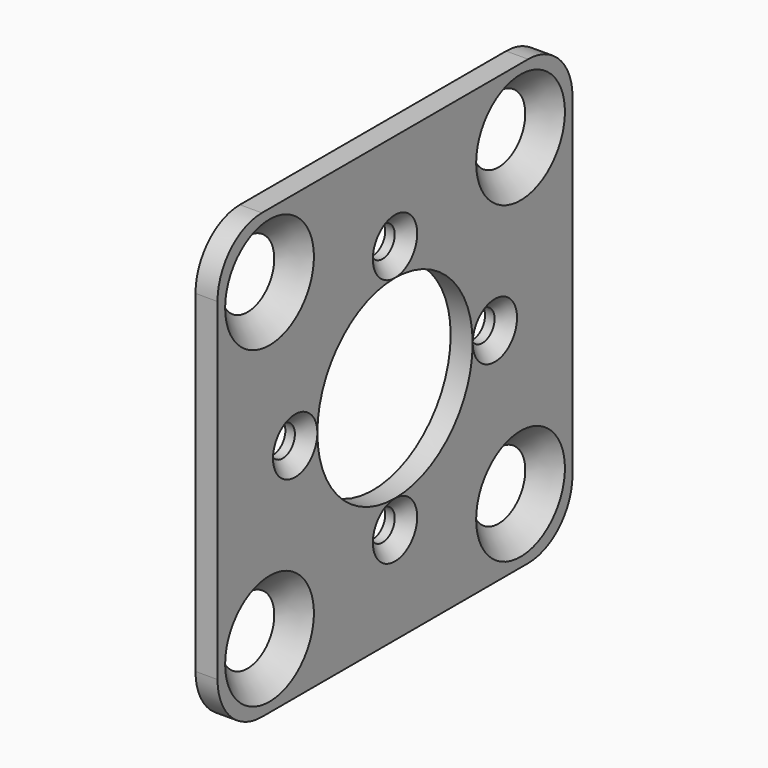
from build123d import *

# Parameters (mm, degrees)
F0_W           = 32
F0_H           = 32
F0_R           = 2
F0_R_2         = 1.1
F0_R_3         = 7
F1_DEPTH       = 1.5875
F3_D           = 4
F3_CSINK_D     = 8
F3_CSINK_ANGLE = 90
F4_D           = 2
F4_CSINK_D     = 4
F4_CSINK_ANGLE = 90
F5_R           = 4


with BuildPart() as f1:
    # F0 (on Right) → F1 (new body)
    with BuildSketch(Plane.YZ):
        Rectangle(F0_W, F0_H)
        with Locations((-11.313708, -11.313708)):
            Circle(F0_R, mode=Mode.SUBTRACT)
        with Locations((0, -9)):
            Circle(F0_R_2, mode=Mode.SUBTRACT)
        with Locations((11.313708, -11.313708)):
            Circle(F0_R, mode=Mode.SUBTRACT)
        with Locations((-9, 0)):
            Circle(F0_R_2, mode=Mode.SUBTRACT)
        with Locations((-11.313708, 11.313708)):
            Circle(F0_R, mode=Mode.SUBTRACT)
        Circle(F0_R_3, mode=Mode.SUBTRACT)
        with Locations((9, 0)):
            Circle(F0_R_2, mode=Mode.SUBTRACT)
        with Locations((0, 9)):
            Circle(F0_R_2, mode=Mode.SUBTRACT)
        with Locations((11.313708, 11.313708)):
            Circle(F0_R, mode=Mode.SUBTRACT)
    extrude(amount=F1_DEPTH)

    # F3 (through all)
    with Locations(Plane.YZ.offset(1.5875)):
        with Locations((-11.313708, 11.313708), (11.313708, 11.313708), (11.313708, -11.313708), (-11.313708, -11.313708)):
            CounterSinkHole(F3_D / 2, F3_CSINK_D / 2, counter_sink_angle=F3_CSINK_ANGLE)

    # F4 (through all)
    with Locations(Plane.YZ.offset(1.5875)):
        with Locations((-9, 0), (0, 9), (9, 0), (0, -9)):
            CounterSinkHole(F4_D / 2, F4_CSINK_D / 2, counter_sink_angle=F4_CSINK_ANGLE)

    # F5
    f5_edges = [f1.edges().sort_by_distance(p)[0] for p in [
        (0.79375, -16, 16),
        (0.79375, 16, 16),
        (0.79375, 16, -16),
        (0.79375, -16, -16),
    ]]
    fillet(f5_edges, radius=F5_R)


solid = f1.part
